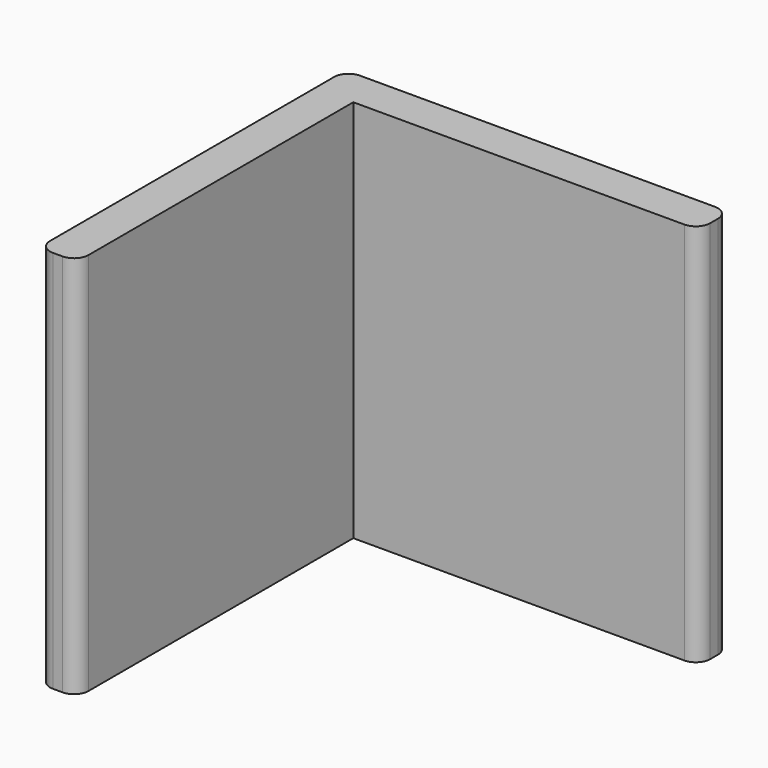
from build123d import *

# Parameters (mm, degrees)
F1_DEPTH = 400
F2_R     = 15
F3_R     = 15


with BuildPart() as f1:
    # F0 (on Top) → F1 (new body)
    with BuildSketch(Plane.XY):
        Polygon((0, 400), (0, 0), (40, 0), (40, 360), (400, 360), (400, 400), align=None)
    extrude(amount=F1_DEPTH)

    # F2
    f2_edges = [f1.edges().sort_by_distance(p)[0] for p in [
        (40, 0, 200),
        (0, 0, 200),
        (400, 360, 200),
        (400, 400, 200),
    ]]
    fillet(f2_edges, radius=F2_R)

    # F3
    f3_edges = [f1.edges().sort_by_distance(p)[0] for p in [
        (0, 400, 200),
    ]]
    fillet(f3_edges, radius=F3_R)


solid = f1.part
